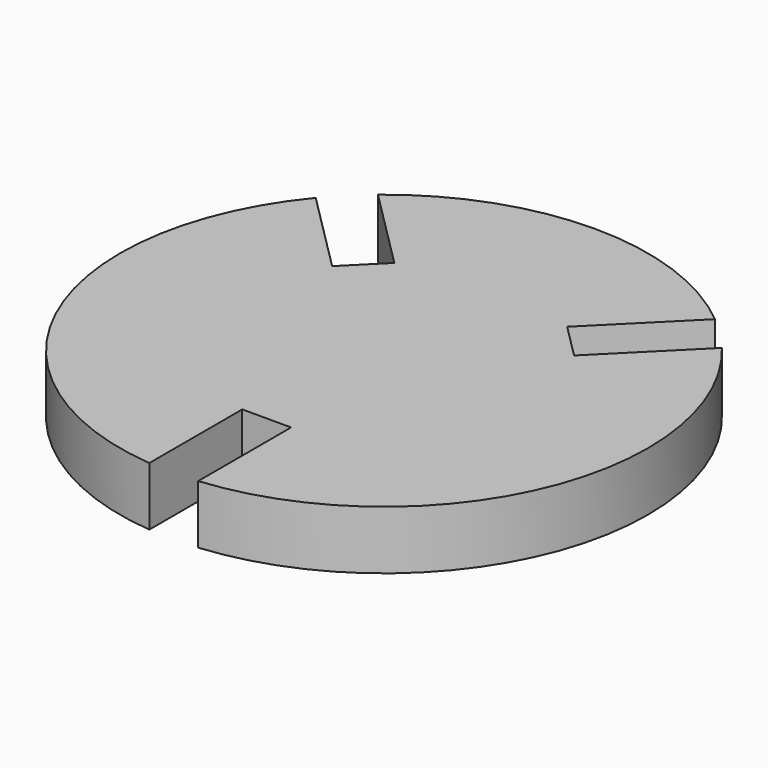
from build123d import *

# Parameters (mm, degrees)
F1_DEPTH = 30


with BuildPart() as f1:
    # F0 (on Top) → F1 (new body)
    with BuildSketch(Plane.XY):
        with BuildLine():
            Line((103.888164, 86.210495), (61.871843, 44.194174))
            Line((61.871843, 44.194174), (44.194174, 61.871843))
            Line((44.194174, 61.871843), (86.210495, 103.888164))
            ThreePointArc((86.210495, 103.888164), (0, 135), (-86.210495, 103.888164))
            Line((-86.210495, 103.888164), (-44.194174, 61.871843))
            Line((-44.194174, 61.871843), (-61.871843, 44.194174))
            Line((-61.871843, 44.194174), (-103.888164, 86.210495))
            ThreePointArc((-103.888164, 86.210495), (-124.723737, -51.662263), (-12.5, -134.420051))
            Line((-12.5, -134.420051), (-12.5, -75))
            Line((-12.5, -75), (12.5, -75))
            Line((12.5, -75), (12.5, -134.420051))
            ThreePointArc((12.5, -134.420051), (124.723737, -51.662263), (103.888164, 86.210495))
        make_face()
    extrude(amount=F1_DEPTH)


solid = f1.part
